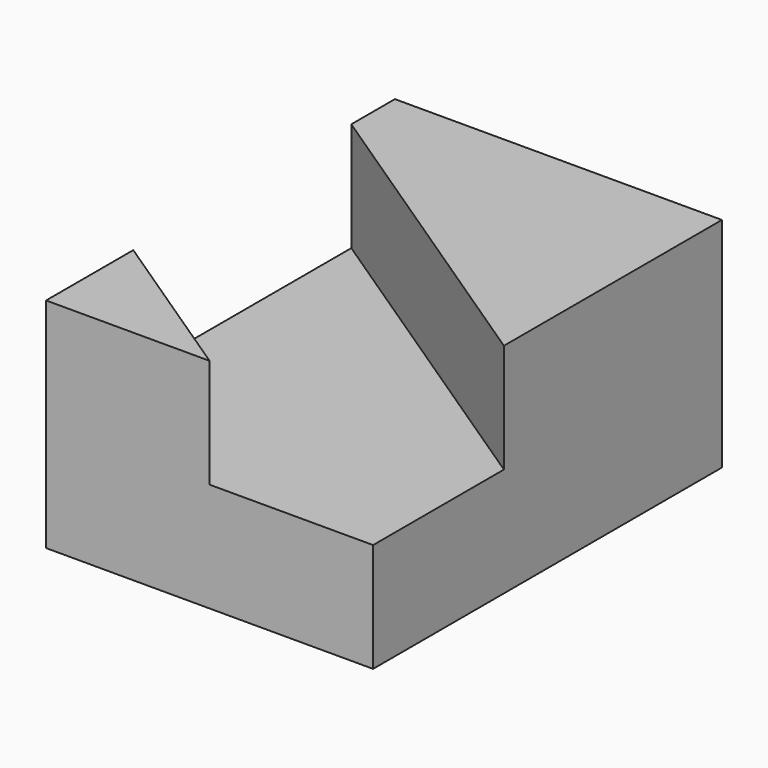
from build123d import *

# Parameters (mm, degrees)
F0_W     = 38.1
F0_H     = 50.8
F1_DEPTH = 25.4
F3_DEPTH = 25.4
F4_DEPTH = 12.7
F5_W     = 50.8
F5_H     = 25.4
F6_DEPTH = 50.8


with BuildPart() as f1:
    # F0 (on Top) → F1 (new body)
    with BuildSketch(Plane.XY):
        with Locations((19.05, 25.4)):
            Rectangle(F0_W, F0_H)
        with Locations((19.05, 25.4)):
            Rectangle(F0_W, F0_H)
    extrude(amount=F1_DEPTH)

    # F2 (on face) → F3 (join)
    with BuildSketch(Plane.XY.offset(25.4)):
        Polygon((0, 50.8), (0, 44.45), (38.1, 19.05), (38.1, 50.8), align=None)
        Polygon((0, 12.7), (0, 0), (19.05, 0), align=None)
    extrude(amount=F3_DEPTH)

    # F1_face (on face) → F4 (join)
    with BuildSketch(Plane(origin=(19.05, 25.4, 25.4), x_dir=(1, 0, 0), z_dir=(0, 0, 1))):
        Polygon((19.05, -6.35), (-19.05, 19.05), (-19.05, -12.7), (0, -25.4), (19.05, -25.4), align=None)
    extrude(amount=F4_DEPTH)

    # F5 (on face) → F6 (cut)
    with BuildSketch(Plane.YZ.offset(38.1)):
        with Locations((25.4, 12.7)):
            Rectangle(F5_W, F5_H)
    extrude(amount=-F6_DEPTH, mode=Mode.SUBTRACT)


solid = f1.part
